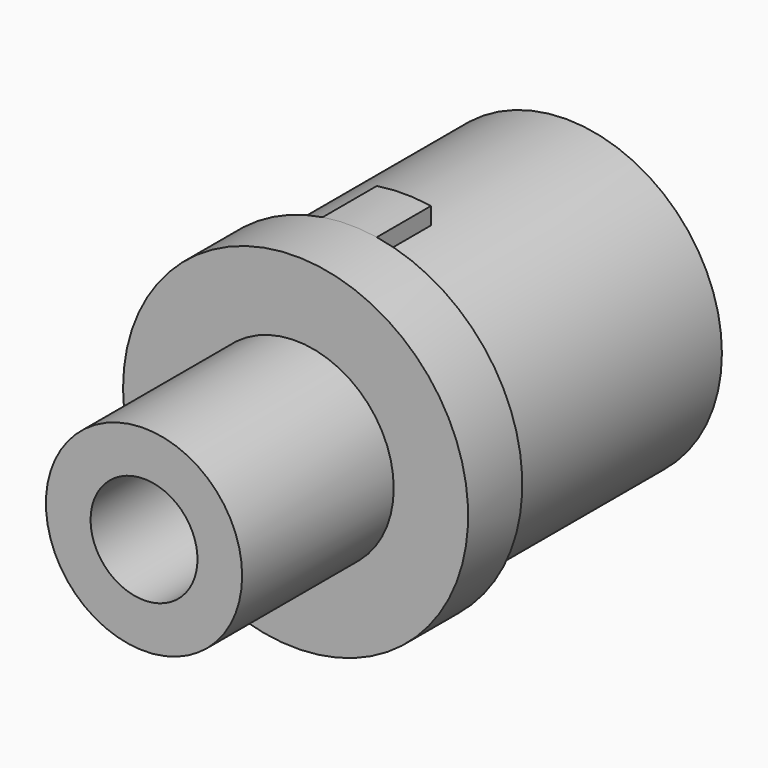
from build123d import *

# Parameters (mm, degrees)
F0_R      = 7.25
F1_DEPTH  = 14
F3_R      = 3
F4_DEPTH  = 14.001
F6_R      = 12.75
F7_DEPTH  = 25
F8_R      = 3.95
F9_DEPTH  = 39.001
F10_R     = 12.75
F10_R_2   = 11.5
F11_DEPTH = 20
F13_DEPTH = 5
F14_R     = 3.95
F15_DEPTH = 6.5


with BuildPart() as f1:
    # F0 (on Front) → F1 (new body)
    with BuildSketch(Plane.XZ):
        Circle(F0_R)
    extrude(amount=F1_DEPTH)

    # F3 (on face) → F4 (cut, through all)
    with BuildSketch(Plane.XZ.offset(14)):
        Circle(F3_R)
    extrude(amount=-F4_DEPTH, mode=Mode.SUBTRACT)

    # F6 (on offset) → F7 (join)
    with BuildSketch(Plane(origin=(0, 0, 0), x_dir=(-1, 0, 0), z_dir=(0, 1, 0))):
        Circle(F6_R)
    extrude(amount=F7_DEPTH)

    # F8 (on face) → F9 (cut, through all)
    with BuildSketch(Plane(origin=(0, 25, 0), x_dir=(-1, 0, 0), z_dir=(0, 1, 0))):
        Circle(F8_R)
    extrude(amount=-F9_DEPTH, mode=Mode.SUBTRACT)

    # F10 (on face) → F11 (cut)
    with BuildSketch(Plane(origin=(0, 25, 0), x_dir=(-1, 0, 0), z_dir=(0, 1, 0))):
        Circle(F10_R)
        Circle(F10_R_2, mode=Mode.SUBTRACT)
    extrude(amount=-F11_DEPTH, mode=Mode.SUBTRACT)

    # F12 (on face) → F13 (join)
    with BuildSketch(Plane(origin=(0, 5, 0), x_dir=(-1, 0, 0), z_dir=(0, 1, 0))):
        with BuildLine():
            ThreePointArc((2, 12.5921602595), (0, 12.75), (-2, 12.5921602595))
            Line((-2, 12.5921602595), (-2, 11.3247516529))
            ThreePointArc((-2, 11.3247516529), (0, 11.5), (2, 11.3247516529))
            Line((2, 11.3247516529), (2, 12.5921602595))
        make_face()
        with BuildLine():
            Line((-2, -11.3247516529), (-2, -12.5921602595))
            ThreePointArc((-2, -12.5921602595), (0, -12.75), (2, -12.5921602595))
            Line((2, -12.5921602595), (2, -11.3247516529))
            ThreePointArc((2, -11.3247516529), (0, -11.5), (-2, -11.3247516529))
        make_face()
    extrude(amount=F13_DEPTH)

    # F14 (on face) → F15 (cut)
    with BuildSketch(Plane(origin=(0, 25, 0), x_dir=(-1, 0, 0), z_dir=(0, 1, 0))):
        Polygon((5.6975970229, 5.0613622835), (-1.5344698039, 7.4649449041), (-7.2320668267, 2.4035826206), (-5.6975970229, -5.0613622835), (1.5344698039, -7.4649449041), (7.2320668267, -2.4035826206), align=None)
        Circle(F14_R, mode=Mode.SUBTRACT)
    extrude(amount=-F15_DEPTH, mode=Mode.SUBTRACT)


solid = f1.part
